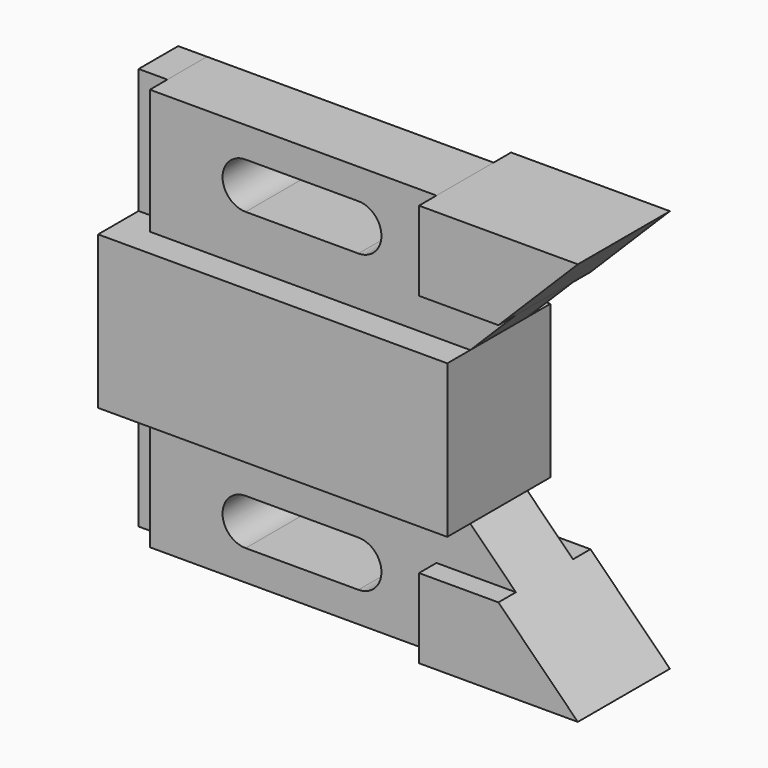
from build123d import *

# Parameters (mm, degrees)
F1_DEPTH = 14.224
F2_DEPTH = 12.7
F3_DEPTH = 7.874
F0_W     = 6.35
F0_H     = 27.592076916
F4_DEPTH = 7.874
F5_DEPTH = 4.826


with BuildPart() as f1:
    # F0 (on Front) → F1 (new body, symmetric)
    with BuildSketch(Plane.XZ):
        Polygon((6.35, 16.857923084), (0, 16.857923084), (0, 0), (77.055923084, 0), (77.055923084, 16.857923084), align=None)
    extrude(amount=F1_DEPTH, both=True)

    # F6: F1, F2, F3, F4 across face


with BuildPart() as f2:
    # F0 (on Front) → F2 (new body, symmetric)
    with BuildSketch(Plane.XZ):
        Polygon((104.648, 44.45), (69.596, 44.45), (69.596, 26.924), (87.122, 26.924), align=None)
    extrude(amount=F2_DEPTH, both=True)


with BuildPart() as f3:
    # F0 (on Front) → F3 (new body, symmetric)
    with BuildSketch(Plane.XZ):
        Polygon((69.596, 44.45), (6.35, 44.45), (6.35, 16.857923084), (77.055923084, 16.857923084), (87.122, 26.924), (69.596, 26.924), align=None)
        with BuildLine():
            ThreePointArc((52.3620410664, 37.7456286583), (55.9541435148, 36.2577311068), (57.4420410664, 32.6656286583))
            ThreePointArc((57.4420410664, 32.6656286583), (55.9541435148, 29.0735262099), (52.3620410664, 27.5856286583))
            Line((52.3620410664, 27.5856286583), (27.4700410664, 27.5856286583))
            ThreePointArc((27.4700410664, 27.5856286583), (22.3900410664, 32.6656286583), (27.4700410664, 37.7456286583))
            Line((27.4700410664, 37.7456286583), (52.3620410664, 37.7456286583))
        make_face(mode=Mode.SUBTRACT)
    extrude(amount=F3_DEPTH, both=True)


with BuildPart() as f4:
    # F0 (on Front) → F4 (new body, symmetric)
    with BuildSketch(Plane.XZ):
        with Locations((3.175, 30.653961542)):
            Rectangle(F0_W, F0_H)
    extrude(amount=F4_DEPTH, both=True)

    # F5 (cut): a face of the model
    f5_faces = [f4.faces().sort_by_distance(p)[0] for p in [
        (3.175, -7.874, 30.653961542),
    ]]
    extrude(f5_faces, amount=-F5_DEPTH, mode=Mode.SUBTRACT)


with BuildPart() as f1_1:
    add(f1.part)
    add(f1.part.mirror(Plane(origin=(38.527961542, 0, 0), x_dir=(1, 0, 0), z_dir=(0, 0, -1))))
    add(f2.part.mirror(Plane(origin=(38.527961542, 0, 0), x_dir=(1, 0, 0), z_dir=(0, 0, -1))))
    add(f3.part.mirror(Plane(origin=(38.527961542, 0, 0), x_dir=(1, 0, 0), z_dir=(0, 0, -1))))
    add(f4.part.mirror(Plane(origin=(38.527961542, 0, 0), x_dir=(1, 0, 0), z_dir=(0, 0, -1))))


solid = Compound([f2.part, f3.part, f4.part, f1_1.part])
